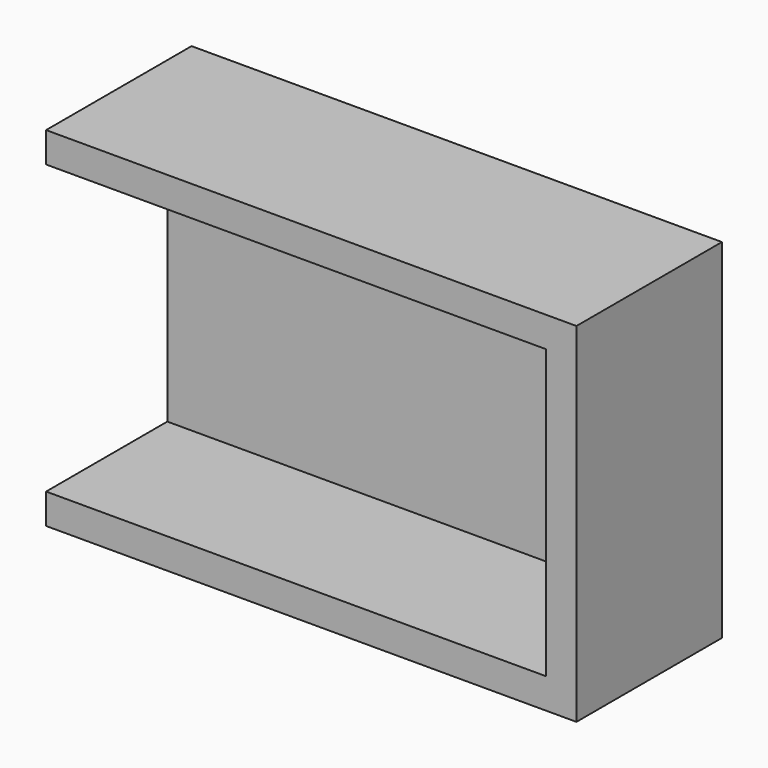
from build123d import *

# Parameters (mm, degrees)
F0_W     = 41.91
F0_H     = 2.54
F1_DEPTH = 15.24
F0_H_2   = 24.13
F2_DEPTH = 2.54


with BuildPart() as f1:
    # F0 (on Front) → F1 (new body)
    with BuildSketch(Plane.XZ):
        with Locations((20.955, 25.4)):
            Rectangle(F0_W, F0_H)
        Polygon((41.91, 24.13), (41.91, 0), (41.91, -2.54), (44.45, -2.54), (44.45, 26.67), (41.91, 26.67), align=None)
        with Locations((20.955, -1.27)):
            Rectangle(F0_W, F0_H)
    extrude(amount=F1_DEPTH)

    # F0 (on Front) → F2 (join)
    with BuildSketch(Plane.XZ):
        with Locations((20.955, 12.065)):
            Rectangle(F0_W, F0_H_2)
    extrude(amount=F2_DEPTH)


solid = f1.part
